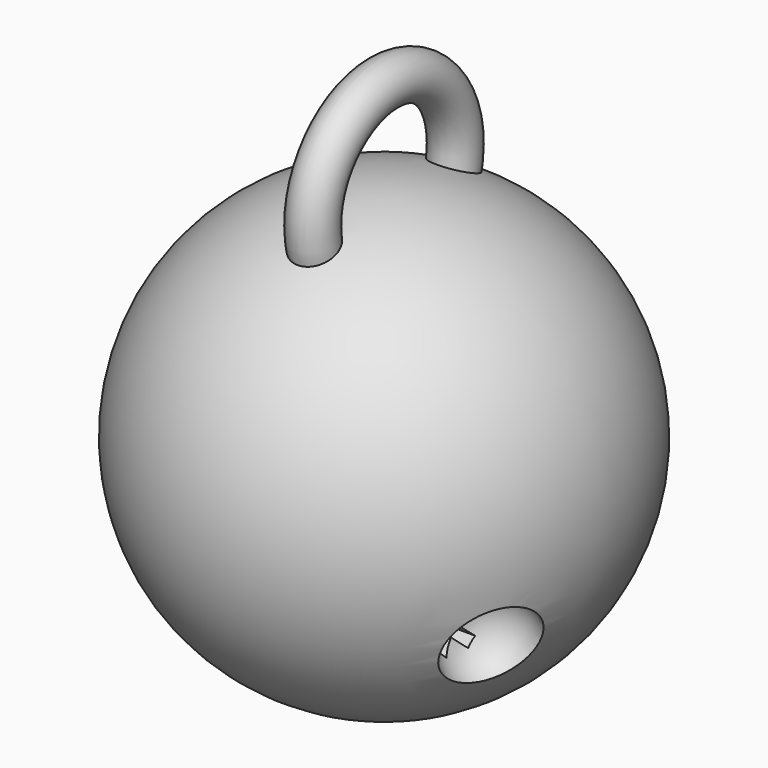
from build123d import *

# Parameters (mm, degrees)
BOX001_W               = 10
BOX001_H               = 2.5
BOX001_DEPTH           = 10
BOX001_PLACEMENT_ANGLE = 135
BOX_W                  = 10
BOX_H                  = 2.5
BOX_DEPTH              = 10
BOX_ROLL_ANGLE         = 45
TORUS_R                = 5
TORUS_PITCH_ANGLE      = 90


with BuildPart() as obj1:
    # Box001 → Box001 (new body)
    with BuildSketch(Plane.XY):
        with Locations((5, 1.25)):
            Rectangle(BOX001_W, BOX001_H)
    extrude(amount=BOX001_DEPTH)


with BuildPart() as obj1_1:
    # Box001 placement: moved
    add(obj1.part.moved(Location((25, -14.580583, -17.632621))).rotate(Axis((25, -14.580583, -17.632621), (1, 0, 0)), BOX001_PLACEMENT_ANGLE))


with BuildPart() as obj2:
    # Box → Box (new body)
    with BuildSketch(Plane.XY):
        with Locations((5, 1.25)):
            Rectangle(BOX_W, BOX_H)
    extrude(amount=BOX_DEPTH)


with BuildPart() as obj2_1:
    # Box roll: moved
    add(obj2.part.rotate(Axis((0, 0, 0), (1, 0, 0)), BOX_ROLL_ANGLE))


with BuildPart() as obj2_2:
    # Box placement: moved
    add(obj2_1.part.moved(Location((25, -16.34835, -24.703689))))


with BuildPart() as obj3:
    # Torus → Torus (revolve)
    with BuildSketch(Plane.XZ):
        with Locations((20, 0)):
            Circle(TORUS_R)
    revolve(axis=Axis((0, 0, 0), (0, 0, 1)))


with BuildPart() as obj3_1:
    # Torus pitch: moved
    add(obj3.part.rotate(Axis((0, 0, 0), (0, 1, 0)), TORUS_PITCH_ANGLE))


with BuildPart() as obj3_2:
    # Torus placement: moved
    add(obj3_1.part.moved(Location((0, 0, 50))))


with BuildPart() as obj4:
    # Sphere001 → Sphere001 (revolve)
    with BuildSketch(Plane(origin=(40, -20, -20), x_dir=(1, 0, 0), z_dir=(0, -1, 0))):
        with BuildLine():
            ThreePointArc((0, -10), (10, 0), (0, 10))
            Line((0, 10), (0, -10))
        make_face()
    revolve(axis=Axis((40, -20, -20), (0, 0, 1)))


with BuildPart() as cut002:
    # Sphere → Sphere (revolve)
    with BuildSketch(Plane.XZ):
        with BuildLine():
            ThreePointArc((0, -50), (50, 0), (0, 50))
            Line((0, 50), (0, -50))
        make_face()
    revolve(axis=Axis((0, 0, 0), (0, 0, 1)))

    # Cut: cut obj4
    add(obj4.part, mode=Mode.SUBTRACT)

    # Fusion: union obj3
    add(obj3_2.part)

    # Cut001: cut obj2
    add(obj2_2.part, mode=Mode.SUBTRACT)

    # Cut002: cut obj1
    add(obj1_1.part, mode=Mode.SUBTRACT)


solid = cut002.part
